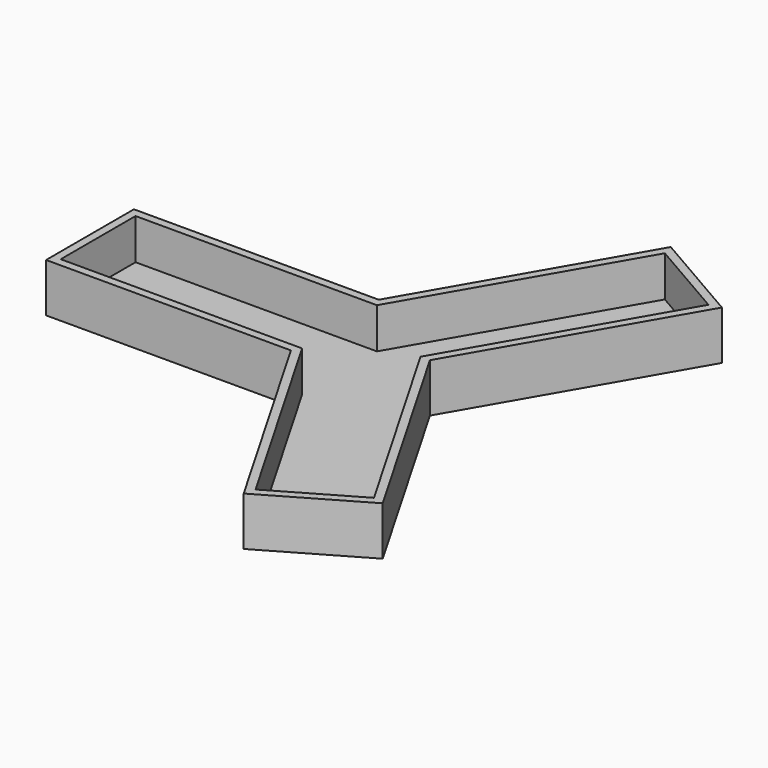
from build123d import *

# Parameters (mm, degrees)
PAD002_DEPTH = 12
PAD_DEPTH    = 2
ARRAY_COUNT  = 3


with BuildPart() as pad002:
    # Sketch002 → Pad002 (new body)
    with BuildSketch(Plane.XY):
        Polygon((-6.6395280957, 11.5), (-7.7942286341, 13.5), (-68, 13.5), (-68, -13.5), (-7.7942286341, -13.5), (-6.6395280957, -11.5), (-66, -11.5), (-66, 11.5), align=None)
    extrude(amount=PAD002_DEPTH)


with BuildPart() as array:
    # Sketch → Pad (new body)
    with BuildSketch(Plane.XY):
        Polygon((0, 0), (-7.7942286341, 13.5), (-68, 13.5), (-68, -13.5), (-7.7942286341, -13.5), align=None)
    extrude(amount=PAD_DEPTH)

    # Fusion: union Pad002
    add(pad002.part)

    # Array: Array ×3 about axis
    array_axis = Axis((0, 0, 0), (0, 0, 1))


with BuildPart() as array_1:
    add(array.part)
    for i in range(1, ARRAY_COUNT):
        add(array.part.rotate(array_axis, i * 360 / ARRAY_COUNT))


solid = array_1.part
